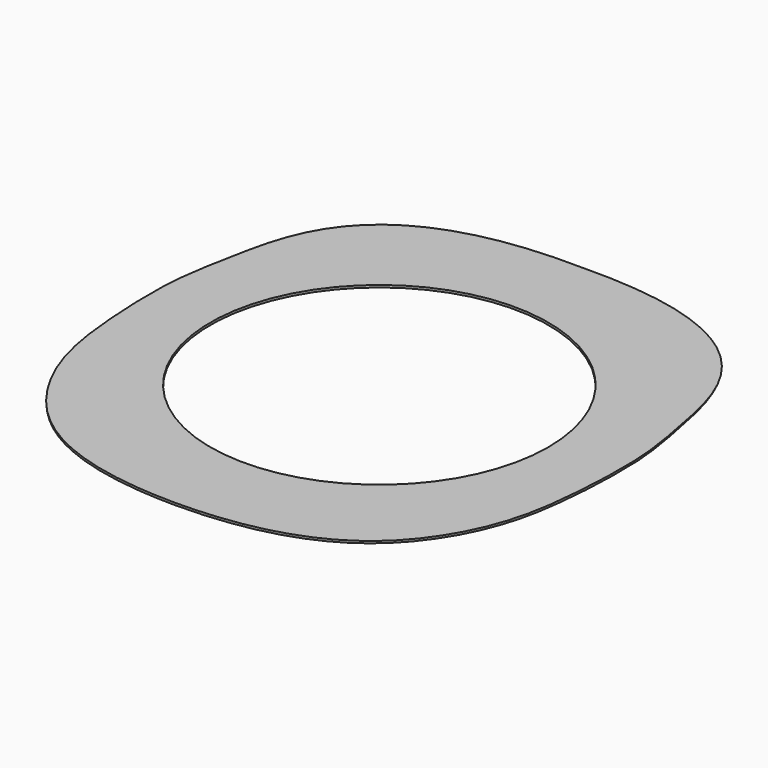
from build123d import *

# Parameters (mm, degrees)
CYLINDER_R     = 30
CYLINDER_DEPTH = 10
BOX001_W       = 100
BOX001_H       = 100
BOX001_DEPTH   = 0.4


with BuildPart() as cylinder:
    # Cylinder → Cylinder (new body)
    with BuildSketch(Plane(origin=(0, 8, 78.2), x_dir=(1, 0, 0), z_dir=(0, 0, 1))):
        Circle(CYLINDER_R)
    extrude(amount=CYLINDER_DEPTH)


with BuildPart() as cube001:
    # Box001 → Box001 (new body)
    with BuildSketch(Plane(origin=(-53, -45.8, 79.6), x_dir=(1, 0, 0), z_dir=(0, 0, 1))):
        with Locations((50, 50)):
            Rectangle(BOX001_W, BOX001_H)
    extrude(amount=BOX001_DEPTH)


with BuildPart() as body005:
    # Sketch013 → AdditiveLoft005 section 0
    with BuildSketch(Plane.XY.offset(41)):
        with BuildLine():
            add(Edge.make_bspline(
                [(0, 36.497025), (26.576986, 35.262943), (47.796365, 0), (27.047079, -34.785005), (0, -35.8137)],
                knots=[0, 0, 0, 0, 0.5, 1, 1, 1, 1], degree=3))
            add(Edge.make_bspline(
                [(0, 36.497025), (-26.576986, 35.262943), (-47.796365, 0), (-27.047079, -34.785005), (0, -35.8137)],
                knots=[0, 0, 0, 0, 0.5, 1, 1, 1, 1], degree=3))
        make_face()
    # Sketch012 → AdditiveLoft005 section 1
    with BuildSketch(Plane.XY):
        with BuildLine():
            add(Edge.make_bspline(
                [(0, 32.9051), (28.479158, 34.285235), (40.246082, 0), (29.153858, -32.29409), (0, -31.3846)],
                knots=[0, 0, 0, 0, 0.5, 1, 1, 1, 1], degree=3))
            add(Edge.make_bspline(
                [(0, 32.9051), (-28.479158, 34.285235), (-40.246082, 0), (-29.153858, -32.29409), (0, -31.3846)],
                knots=[0, 0, 0, 0, 0.5, 1, 1, 1, 1], degree=3))
        make_face()
    loft(ruled=True)


with BuildPart() as cut:
    # Sketch011 → AdditiveLoft004 section 0
    with BuildSketch(Plane.XY.offset(80)):
        with BuildLine():
            add(Edge.make_bspline(
                [(0, 53.061848), (33.768852, 53.748959), (41.60467, 20.311575), (41.974278, 11.194203), (41.83811, 0), (38.792742, -22.041952), (21.032879, -37.277655), (0, -37.349277)],
                knots=[0, 0, 0, 0, 0.2, 0.4, 0.6, 0.8, 1, 1, 1, 1], degree=3))
            add(Edge.make_bspline(
                [(0, 53.061848), (-33.768852, 53.748959), (-41.60467, 20.311575), (-41.974278, 11.194203), (-41.83811, 0), (-38.792742, -22.041952), (-21.032879, -37.277655), (0, -37.349277)],
                knots=[0, 0, 0, 0, 0.2, 0.4, 0.6, 0.8, 1, 1, 1, 1], degree=3))
        make_face()
    # Sketch010 → AdditiveLoft004 section 1
    with BuildSketch(Plane.XY.offset(41)):
        with BuildLine():
            add(Edge.make_bspline(
                [(0, 36.497025), (26.576986, 35.262943), (47.796365, 0), (27.047079, -34.785005), (0, -35.8137)],
                knots=[0, 0, 0, 0, 0.5, 1, 1, 1, 1], degree=3))
            add(Edge.make_bspline(
                [(0, 36.497025), (-26.576986, 35.262943), (-47.796365, 0), (-27.047079, -34.785005), (0, -35.8137)],
                knots=[0, 0, 0, 0, 0.5, 1, 1, 1, 1], degree=3))
        make_face()
    loft(ruled=True)

    # Fusion003: union Body005
    add(body005.part)

    # Common001: intersect Cube001
    add(cube001.part, mode=Mode.INTERSECT)

    # Cut: cut Cylinder
    add(cylinder.part, mode=Mode.SUBTRACT)


solid = cut.part
